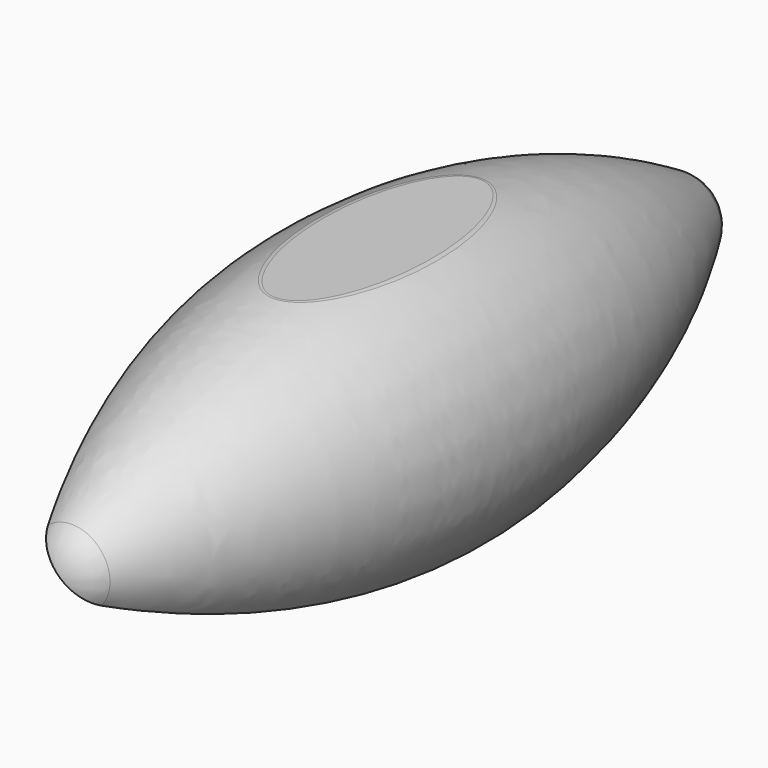
from build123d import *

# Parameters (mm, degrees)
F2_W     = 150
F2_H     = 10
F3_DEPTH = 50
F5_DEPTH = 203
F6_W     = 1.5
F6_H     = 60
F7_DEPTH = 2
F8_R     = 5


with BuildPart() as f1:
    # F0 (on Right) → F1 (revolve)
    with BuildSketch(Plane.YZ):
        with BuildLine():
            ThreePointArc((-170.446234, 17.055093), (-177.448849, 9.774337), (-180, 0))
            Line((-180, 0), (180, 0))
            ThreePointArc((180, 0), (177.448849, 9.774337), (170.446234, 17.055093))
            ThreePointArc((170.446234, 17.055093), (0, 65.105742), (-170.446234, 17.055093))
        make_face()
    revolve(axis=Axis((0, 0, 0), (0, 1, 0)))

    # F2 (on Right) → F3 (cut, symmetric)
    with BuildSketch(Plane.YZ):
        with Locations((0, -65)):
            Rectangle(F2_W, F2_H)
        Polygon((75, 70), (-75, 70), (-75, 60), (0, 60), (75, 60), align=None)
    extrude(amount=F3_DEPTH, both=True, mode=Mode.SUBTRACT)

    # F4 (on Front) → F5 (cut, symmetric)
    with BuildSketch(Plane.XZ):
        Polygon((68.942911, -68.942911), (-68.942911, 68.942911), (-68.942911, -68.942911), align=None)
    extrude(amount=F5_DEPTH, both=True, mode=Mode.SUBTRACT)

    # F6 (on face) → F7 (cut)
    with BuildSketch(Plane(origin=(0, 0, 0), x_dir=(0.707107, 0, -0.707107), z_dir=(-0.707107, 0, -0.707107))):
        with BuildLine():
            ThreePointArc((0, -180), (9.774337, -177.448849), (17.055093, -170.446234))
            add(Edge.make_bspline(
                [(17.055093, -170.446234), (24.860926, -157.702005), (31.9665, -144.52862), (38.34207, -130.974563), (43.962814, -117.090486), (48.808403, -102.929006), (56.918486, -74.160756), (60.183095, -59.55358), (62.641795, -44.778088), (64.284441, -29.889769), (65.105742, -14.944779), (65.105742, 14.944779), (64.284441, 29.889769), (62.641795, 44.778088), (60.183095, 59.55358), (56.918486, 74.160756), (48.808403, 102.929006), (43.962814, 117.090486), (38.34207, 130.974563), (31.9665, 144.52862), (24.860926, 157.702005), (17.055093, 170.446234)],
                knots=[0, 0, 0, 0, 0, 0, 0, 0.25, 0.25, 0.25, 0.25, 0.25, 0.5, 0.5, 0.5, 0.5, 0.5, 0.75, 0.75, 0.75, 0.75, 0.75, 1, 1, 1, 1, 1, 1, 1], degree=6))
            ThreePointArc((17.055093, 170.446234), (9.774337, 177.448849), (0, 180))
            ThreePointArc((0, 180), (-9.774337, 177.448849), (-17.055093, 170.446234))
            add(Edge.make_bspline(
                [(-17.055093, -170.446234), (-24.860926, -157.702005), (-31.9665, -144.52862), (-38.34207, -130.974563), (-43.962814, -117.090486), (-48.808403, -102.929006), (-56.918486, -74.160756), (-60.183095, -59.55358), (-62.641795, -44.778088), (-64.284441, -29.889769), (-65.105742, -14.944779), (-65.105742, 14.944779), (-64.284441, 29.889769), (-62.641795, 44.778088), (-60.183095, 59.55358), (-56.918486, 74.160756), (-48.808403, 102.929006), (-43.962814, 117.090486), (-38.34207, 130.974563), (-31.9665, 144.52862), (-24.860926, 157.702005), (-17.055093, 170.446234)],
                knots=[0, 0, 0, 0, 0, 0, 0, 0.25, 0.25, 0.25, 0.25, 0.25, 0.5, 0.5, 0.5, 0.5, 0.5, 0.75, 0.75, 0.75, 0.75, 0.75, 1, 1, 1, 1, 1, 1, 1], degree=6))
            ThreePointArc((-17.055093, -170.446234), (-9.774337, -177.448849), (0, -180))
        make_face()
        with Locations((-25.75, 0)):
            Rectangle(F6_W, F6_H, mode=Mode.SUBTRACT)
    extrude(amount=-F7_DEPTH, mode=Mode.SUBTRACT)

    # F8
    f8_edges = [f1.edges().sort_by_distance(p)[0] for p in [
        (0, -57.5, 60),
    ]]
    fillet(f8_edges, radius=F8_R)


solid = f1.part
